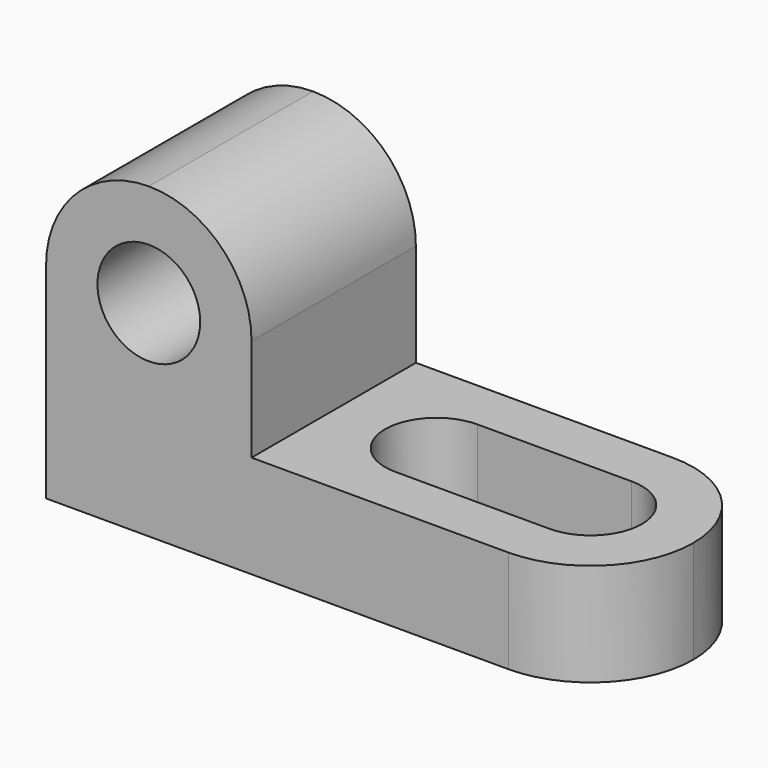
from build123d import *

# Parameters (mm, degrees)
F1_DEPTH = 25.4
F2_R     = 6.35
F3_DEPTH = 25.4
F5_DEPTH = 25.4


with BuildPart() as f1:
    # F0 (on Front) → F1 (new body)
    with BuildSketch(Plane.XZ):
        Polygon((0, 38.1), (0, 0), (69.85, 0), (69.85, 12.7), (25.4, 12.7), (25.4, 38.1), align=None)
    extrude(amount=F1_DEPTH)

    # F2 (on face) → F3 (cut)
    with BuildSketch(Plane.XZ.offset(25.4)):
        with BuildLine():
            ThreePointArc((0, 25.4), (3.719744, 34.380256), (12.7, 38.1))
            Line((12.7, 38.1), (0, 38.1))
            Line((0, 38.1), (0, 25.4))
        make_face()
        with BuildLine():
            ThreePointArc((12.7, 38.1), (21.680256, 34.380256), (25.4, 25.4))
            Line((25.4, 25.4), (25.4, 38.1))
            Line((25.4, 38.1), (12.7, 38.1))
        make_face()
        with Locations((12.7, 25.4)):
            Circle(F2_R)
    extrude(amount=-F3_DEPTH, mode=Mode.SUBTRACT)

    # F4 (on face) → F5 (cut)
    with BuildSketch(Plane.XY.offset(12.7)):
        with BuildLine():
            ThreePointArc((57.15, 0), (66.130256, -3.719744), (69.85, -12.7))
            Line((69.85, -12.7), (69.85, 0))
            Line((69.85, 0), (57.15, 0))
        make_face()
        with BuildLine():
            ThreePointArc((69.85, -12.7), (66.130256, -21.680256), (57.15, -25.4))
            Line((57.15, -25.4), (69.85, -25.4))
            Line((69.85, -25.4), (69.85, -12.7))
        make_face()
        with BuildLine():
            ThreePointArc((38.1, -19.05), (42.590128, -17.190128), (44.45, -12.7))
            ThreePointArc((44.45, -12.7), (42.590128, -8.209872), (38.1, -6.35))
            ThreePointArc((38.1, -6.35), (31.75, -12.7), (38.1, -19.05))
        make_face()
        with BuildLine():
            ThreePointArc((38.1, -6.35), (42.590128, -8.209872), (44.45, -12.7))
            ThreePointArc((44.45, -12.7), (42.590128, -17.190128), (38.1, -19.05))
            Line((38.1, -19.05), (57.15, -19.05))
            ThreePointArc((57.15, -19.05), (50.8, -12.7), (57.15, -6.35))
            Line((57.15, -6.35), (38.1, -6.35))
        make_face()
        with BuildLine():
            ThreePointArc((63.5, -12.7), (61.640128, -8.209872), (57.15, -6.35))
            ThreePointArc((57.15, -6.35), (50.8, -12.7), (57.15, -19.05))
            ThreePointArc((57.15, -19.05), (61.640128, -17.190128), (63.5, -12.7))
        make_face()
    extrude(amount=-F5_DEPTH, mode=Mode.SUBTRACT)


solid = f1.part
